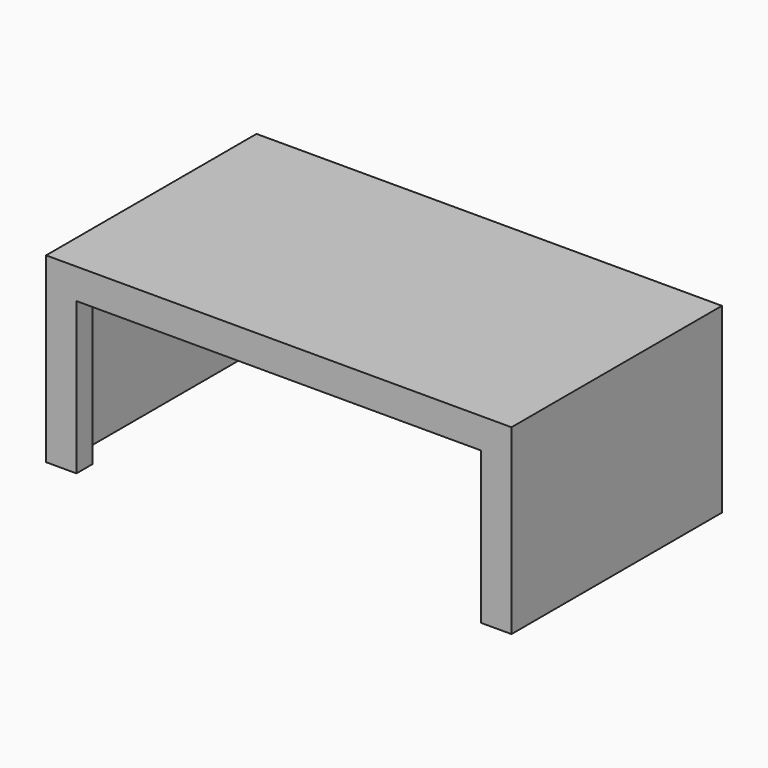
from build123d import *

# Parameters (mm, degrees)
F1_DEPTH = 330.2
F3_DEPTH = 50.8
F5_DEPTH = 50.8


with BuildPart() as f1:
    # F0 (on Front) → F1 (new body, symmetric)
    with BuildSketch(Plane.XZ):
        Polygon((-584.2, 457.2), (-584.2, 0), (-558.8, 0), (-558.8, 431.8), (558.8, 431.8), (558.8, 0), (584.2, 0), (584.2, 457.2), align=None)
    extrude(amount=F1_DEPTH, both=True)

    # F2 (on face) → F3 (join)
    with BuildSketch(Plane(origin=(0, 330.2, 0), x_dir=(-1, 0, 0), z_dir=(0, 1, 0))):
        Polygon((-558.8, 431.8), (-558.8, 0), (-508, 0), (-508, 381), (508, 381), (508, 0), (558.8, 0), (558.8, 431.8), align=None)
    extrude(amount=-F3_DEPTH)

    # F4 (on face) → F5 (join)
    with BuildSketch(Plane.XZ.offset(330.2)):
        Polygon((-584.2, 457.2), (-584.2, 0), (-508, 0), (-508, 381), (508, 381), (508, 0), (584.2, 0), (584.2, 457.2), align=None)
    extrude(amount=-F5_DEPTH)


solid = f1.part
